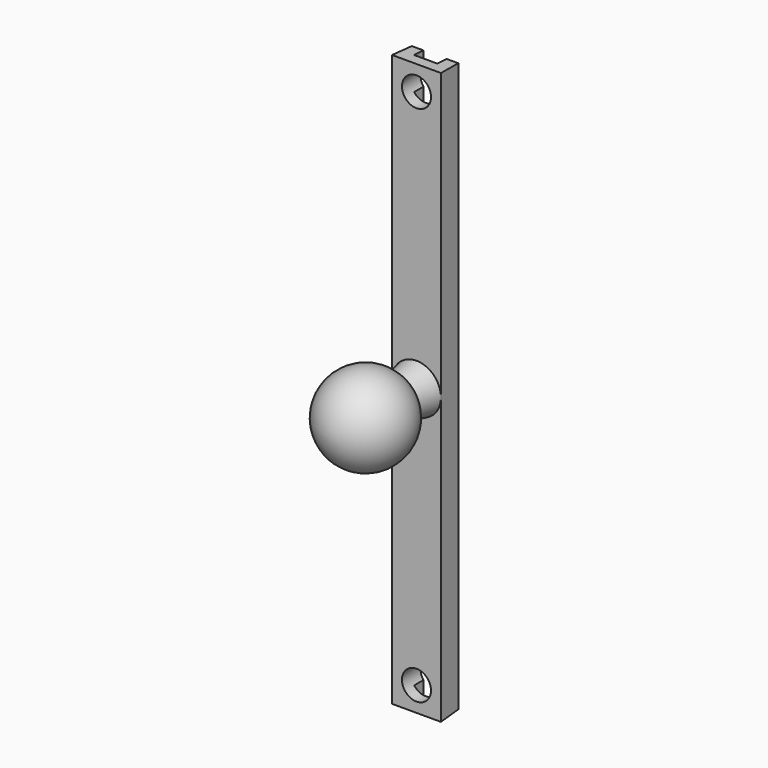
from build123d import *

# Parameters (mm, degrees)
F0_W      = 16
F0_H      = 196
F1_DEPTH  = 8
F1_TAPER  = -3
F2_W      = 8
F2_H      = 200
F3_DEPTH  = 4
F4_R      = 5
F5_DEPTH  = 25.4
F6_R      = 8.4192622343
F8_R      = 4.0010936275
F15_R     = 17.8032930924
F16_DEPTH = 25
F14_R     = 17.9120379097
F17_DEPTH = 25


with BuildPart() as f1:
    # F0 (on Front) → F1 (new body)
    with BuildSketch(Plane.XZ):
        Rectangle(F0_W, F0_H)
    extrude(amount=F1_DEPTH, taper=F1_TAPER)

    # F2 (on face) → F3 (cut)
    with BuildSketch(Plane.XZ):
        Rectangle(F2_W, F2_H)
    extrude(amount=F3_DEPTH, mode=Mode.SUBTRACT)

    # F4 (on Front) → F5 (cut)
    with BuildSketch(Plane.XZ):
        with Locations((0, 90)):
            Circle(F4_R)
        with Locations((0, -90)):
            Circle(F4_R)
    extrude(amount=F5_DEPTH, mode=Mode.SUBTRACT)

    # F6 (on face) → F9 section 0
    with BuildSketch(Plane.XZ.offset(8)):
        Circle(F6_R)
    # F8 (on offset) → F9 section 1
    with BuildSketch(Plane.XZ.offset(30)):
        Circle(F8_R)
    loft()

    # F10 (on Top) → F11 (revolve)
    with BuildSketch(Plane.XY):
        with BuildLine():
            Line((0, -45), (0, -15))
            ThreePointArc((0, -15), (-15, -30), (0, -45))
        make_face()
    revolve(axis=Axis((0, -30, 0), (0, -1, 0)))

    # F15 (on offset) → F16 (cut)
    with BuildSketch(Plane.YZ.offset(25)):
        with Locations((-29.9964938313, 0)):
            Circle(F15_R)
    extrude(amount=F16_DEPTH, mode=Mode.SUBTRACT)

    # F14 (on offset) → F17 (cut)
    with BuildSketch(Plane.YZ.offset(-25)):
        with Locations((-29.9462787807, 0)):
            Circle(F14_R)
    extrude(amount=-F17_DEPTH, mode=Mode.SUBTRACT)


solid = f1.part
